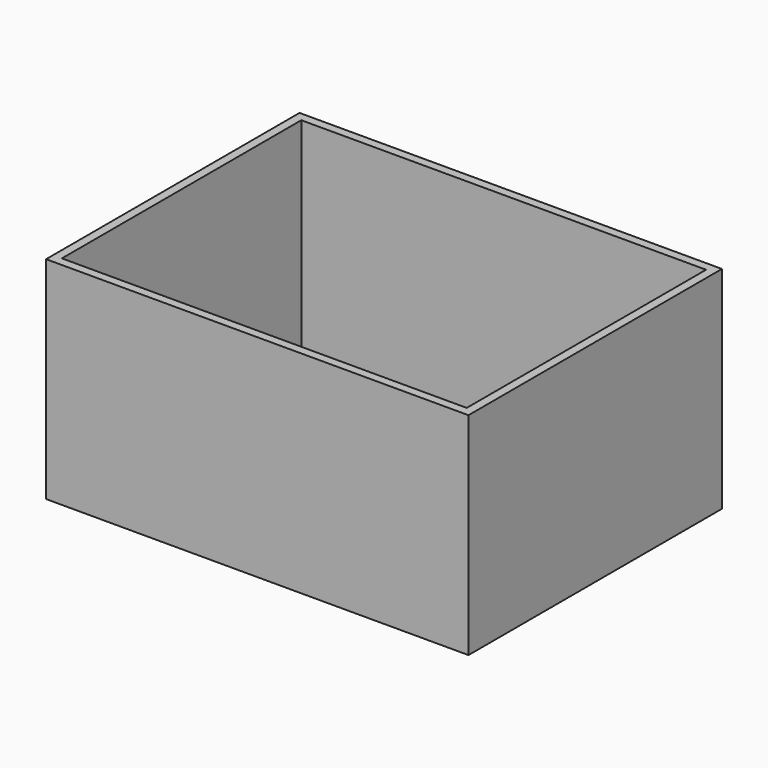
from build123d import *

# Parameters (mm, degrees)
F0_W     = 1219.2
F0_H     = 914.4
F1_DEPTH = 609.6
F2_T     = -25.4
F4_D     = 38.1
F6_D     = 38.1
F8_D     = 38.1


with BuildPart() as f1:
    # F0 (on Top) → F1 (new body)
    with BuildSketch(Plane.XY):
        with Locations((9.154483676, -105.9739306412)):
            Rectangle(F0_W, F0_H)
    extrude(amount=F1_DEPTH)

    # F2
    f2_openings = [f1.faces().sort_by_distance(p)[0] for p in [
        (9.154484, -105.973931, 609.6),
    ]]
    offset(amount=F2_T, openings=f2_openings)

    # F4 (through all)
    with Locations(Plane.XY.offset(25.4)):
        with Locations((-321.045516324, 109.9260693588), (339.354483676, 109.9260693588), (339.354483676, -321.8739306412), (-321.045516324, -321.8739306412), (0, -89.6527866654)):
            Hole(F4_D / 2)

    # F6 (through all)
    with Locations(Plane(origin=(0, 0, 0), x_dir=(1, 0, 0), z_dir=(0, 0, -1))):
        with Locations((0, -211.8932583313), (0, 423.8411196137)):
            Hole(F6_D / 2)

    # F8 (through all)
    with Locations(Plane(origin=(0, 0, 0), x_dir=(1, 0, 0), z_dir=(0, 0, -1))):
        with Locations((-473.445516324, 100.8939306412), (491.754483676, 100.8939306412)):
            Hole(F8_D / 2)


solid = f1.part
